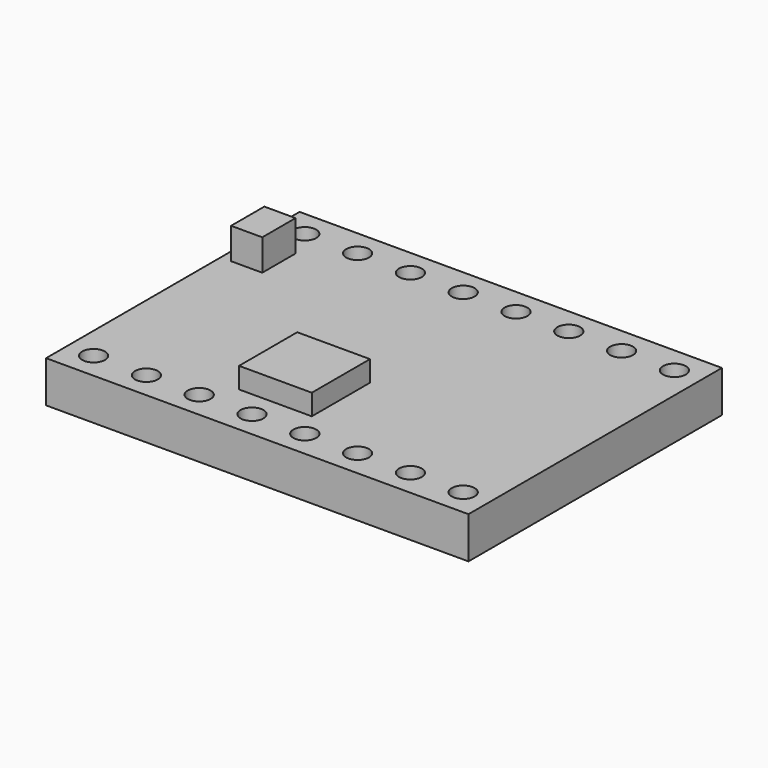
from build123d import *

# Parameters (mm, degrees)
F0_W     = 20.32
F0_H     = 15.24
F0_R     = 0.55
F1_DEPTH = 2
F3_W     = 1.5
F3_H     = 2
F4_DEPTH = 1.5
F3_W_2   = 3.5
F3_H_2   = 3.5
F5_DEPTH = 1


with BuildPart() as f1:
    # F0 (on Top) → F1 (new body)
    with BuildSketch(Plane.XY):
        with Locations((10.16, 7.62)):
            Rectangle(F0_W, F0_H)
        with Locations((1.27, 1.27)):
            Circle(F0_R, mode=Mode.SUBTRACT)
        with Locations((3.81, 1.27)):
            Circle(F0_R, mode=Mode.SUBTRACT)
        with Locations((6.35, 1.27)):
            Circle(F0_R, mode=Mode.SUBTRACT)
        with Locations((8.89, 1.27)):
            Circle(F0_R, mode=Mode.SUBTRACT)
        with Locations((11.43, 1.27)):
            Circle(F0_R, mode=Mode.SUBTRACT)
        with Locations((13.97, 1.27)):
            Circle(F0_R, mode=Mode.SUBTRACT)
        with Locations((16.51, 1.27)):
            Circle(F0_R, mode=Mode.SUBTRACT)
        with Locations((19.05, 1.27)):
            Circle(F0_R, mode=Mode.SUBTRACT)
        with Locations((1.27, 13.97)):
            Circle(F0_R, mode=Mode.SUBTRACT)
        with Locations((3.81, 13.97)):
            Circle(F0_R, mode=Mode.SUBTRACT)
        with Locations((6.35, 13.97)):
            Circle(F0_R, mode=Mode.SUBTRACT)
        with Locations((8.89, 13.97)):
            Circle(F0_R, mode=Mode.SUBTRACT)
        with Locations((11.43, 13.97)):
            Circle(F0_R, mode=Mode.SUBTRACT)
        with Locations((13.97, 13.97)):
            Circle(F0_R, mode=Mode.SUBTRACT)
        with Locations((16.51, 13.97)):
            Circle(F0_R, mode=Mode.SUBTRACT)
        with Locations((19.05, 13.97)):
            Circle(F0_R, mode=Mode.SUBTRACT)
    extrude(amount=F1_DEPTH)

    # F3 (on offset) → F4 (join)
    with BuildSketch(Plane.XY.offset(2)):
        with Locations((1.25, 11.5)):
            Rectangle(F3_W, F3_H)
    extrude(amount=F4_DEPTH)

    # F3 (on offset) → F5 (join)
    with BuildSketch(Plane.XY.offset(2)):
        with Locations((9, 4.29)):
            Rectangle(F3_W_2, F3_H_2)
    extrude(amount=F5_DEPTH)


solid = f1.part
